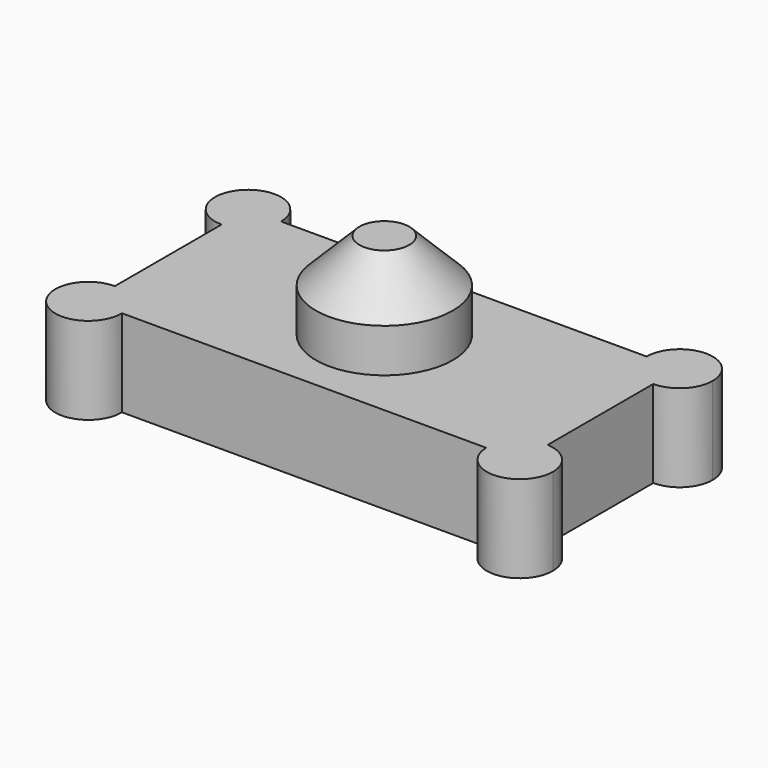
from build123d import *

# Parameters (mm, degrees)
F1_DEPTH = 25.4
F0_R     = 19.9430471138
F2_DEPTH = 50.8
F3_SIZE  = 12.7
F4_DEPTH = 25.4


with BuildPart() as f1:
    # F0 (on Top) → F1 (new body)
    with BuildSketch(Plane.XY):
        with BuildLine():
            ThreePointArc((-59.9172078073, 19.7825102522), (-61.3659473506, 19.4396687918), (-62.8502368927, 19.3244685906))
            Line((-62.8502368927, 19.3244685906), (-62.8502368927, -19.5175472842))
            ThreePointArc((-62.8502368927, -19.5175472842), (-61.3656586606, -19.6363337398), (-59.9172078073, -19.9828490707))
            Line((-59.9172078073, -19.9828490707), (-59.9172078073, 19.7825102522))
        make_face()
    extrude(amount=F1_DEPTH)


with BuildPart() as f1b:
    # F0 (on Top) → F1, piece 2 (new body)
    with BuildSketch(Plane.XY):
        with BuildLine():
            ThreePointArc((52.8192537854, -28.9441850036), (53.0998431919, -26.4220256358), (54.0302113527, -24.0610018373))
            Line((54.0302113527, -24.0610018373), (-54.7015625949, -24.0610018373))
            ThreePointArc((-54.7015625949, -24.0610018373), (-53.6493149559, -26.4051326723), (-53.25512246, -28.9441850036))
            Line((-53.25512246, -28.9441850036), (52.8192537854, -28.9441850036))
        make_face()
    extrude(amount=F1_DEPTH)


with BuildPart() as f1c:
    # F0 (on Top) → F1, piece 3 (new body)
    with BuildSketch(Plane.XY):
        with BuildLine():
            Line((62.8502368927, -19.1266149839), (62.8502368927, 19.3244685906))
            ThreePointArc((62.8502368927, 19.3244685906), (61.3659473506, 19.4396687918), (59.9172078073, 19.7825102522))
            Line((59.9172078073, 19.7825102522), (59.9172078073, -19.4535374533))
            ThreePointArc((59.9172078073, -19.4535374533), (61.3711108257, -19.1769302248), (62.8502368927, -19.1266149839))
        make_face()
    extrude(amount=F1_DEPTH)


with BuildPart() as f1d:
    # F0 (on Top) → F1, piece 4 (new body)
    with BuildSketch(Plane.XY):
        with BuildLine():
            ThreePointArc((54.5620847446, 24.0610018373), (53.5693797901, 26.4134469083), (53.2305204797, 28.9441850036))
            Line((53.2305204797, 28.9441850036), (-53.2305204797, 28.9441850036))
            ThreePointArc((-53.2305204797, 28.9441850036), (-53.5693797901, 26.4134469083), (-54.5620847446, 24.0610018373))
            Line((-54.5620847446, 24.0610018373), (54.5620847446, 24.0610018373))
        make_face()
    extrude(amount=F1_DEPTH)


with BuildPart() as f2:
    # F0 (on Top) → F2 (new body)
    with BuildSketch(Plane.XY):
        Circle(F0_R)
    extrude(amount=F2_DEPTH)

    # F3
    f3_edges = [f2.edges().sort_by_distance(p)[0] for p in [
        (-19.943047, 0, 50.8),
    ]]
    chamfer(f3_edges, length=F3_SIZE)


with BuildPart() as f4:
    # F0 (on Top) → F4 (new body)
    with BuildSketch(Plane.XY):
        with BuildLine():
            ThreePointArc((72.056464709, -28.7374407053), (69.3835672409, -22.0830699301), (62.8502368927, -19.1266149839))
            ThreePointArc((62.8502368927, -19.1266149839), (61.3711108257, -19.1769302248), (59.9172078073, -19.4535374533))
            ThreePointArc((59.9172078073, -19.4535374533), (56.507838276, -21.1620219155), (54.0302113527, -24.0610018373))
            ThreePointArc((54.0302113527, -24.0610018373), (53.0998431919, -26.4220256358), (52.8192537854, -28.9441850036))
            ThreePointArc((52.8192537854, -28.9441850036), (62.5401264148, -38.3566016267), (72.056464709, -28.7374407053))
        make_face()
        with BuildLine():
            ThreePointArc((54.5620847446, 24.0610018373), (53.5693797901, 26.4134469083), (53.2305204797, 28.9441850036))
            Line((53.2305204797, 28.9441850036), (-53.2305204797, 28.9441850036))
            ThreePointArc((-53.2305204797, 28.9441850036), (-53.5693797901, 26.4134469083), (-54.5620847446, 24.0610018373))
            Line((-54.5620847446, 24.0610018373), (54.5620847446, 24.0610018373))
        make_face()
        with BuildLine():
            ThreePointArc((72.4699533057, 28.9441850036), (62.8502368927, 38.5639014166), (53.2305204797, 28.9441850036))
            ThreePointArc((53.2305204797, 28.9441850036), (53.5693797901, 26.4134469083), (54.5620847446, 24.0610018373))
            ThreePointArc((54.5620847446, 24.0610018373), (56.8456470125, 21.4286115567), (59.9172078073, 19.7825102522))
            ThreePointArc((59.9172078073, 19.7825102522), (61.3659473506, 19.4396687918), (62.8502368927, 19.3244685906))
            ThreePointArc((62.8502368927, 19.3244685906), (69.6524036014, 22.1420182949), (72.4699533057, 28.9441850036))
        make_face()
        with BuildLine():
            ThreePointArc((-54.5620847446, 24.0610018373), (-53.5693797901, 26.4134469083), (-53.2305204797, 28.9441850036))
            ThreePointArc((-53.2305204797, 28.9441850036), (-69.6524036014, 35.7463517124), (-62.8502368927, 19.3244685906))
            ThreePointArc((-62.8502368927, 19.3244685906), (-61.3659473506, 19.4396687918), (-59.9172078073, 19.7825102522))
            Line((-59.9172078073, 19.7825102522), (-59.9172078073, -19.9828490707))
            ThreePointArc((-59.9172078073, -19.9828490707), (-56.947486235, -21.5590843792), (-54.7015625949, -24.0610018373))
            Line((-54.7015625949, -24.0610018373), (54.0302113527, -24.0610018373))
            ThreePointArc((54.0302113527, -24.0610018373), (56.507838276, -21.1620219155), (59.9172078073, -19.4535374533))
            Line((59.9172078073, -19.4535374533), (59.9172078073, 19.7825102522))
            ThreePointArc((59.9172078073, 19.7825102522), (56.8456470125, 21.4286115567), (54.5620847446, 24.0610018373))
            Line((54.5620847446, 24.0610018373), (-54.5620847446, 24.0610018373))
        make_face()
        Circle(F0_R, mode=Mode.SUBTRACT)
        with BuildLine():
            ThreePointArc((-59.9172078073, 19.7825102522), (-61.3659473506, 19.4396687918), (-62.8502368927, 19.3244685906))
            Line((-62.8502368927, 19.3244685906), (-62.8502368927, -19.5175472842))
            ThreePointArc((-62.8502368927, -19.5175472842), (-61.3656586606, -19.6363337398), (-59.9172078073, -19.9828490707))
            Line((-59.9172078073, -19.9828490707), (-59.9172078073, 19.7825102522))
        make_face()
        with BuildLine():
            Line((62.8502368927, -19.1266149839), (62.8502368927, 19.3244685906))
            ThreePointArc((62.8502368927, 19.3244685906), (61.3659473506, 19.4396687918), (59.9172078073, 19.7825102522))
            Line((59.9172078073, 19.7825102522), (59.9172078073, -19.4535374533))
            ThreePointArc((59.9172078073, -19.4535374533), (61.3711108257, -19.1769302248), (62.8502368927, -19.1266149839))
        make_face()
        with BuildLine():
            ThreePointArc((-59.9172078073, -19.9828490707), (-61.3656586606, -19.6363337398), (-62.8502368927, -19.5175472842))
            ThreePointArc((-62.8502368927, -19.5175472842), (-69.6830767228, -35.9313858112), (-53.2531851459, -29.1372369975))
            ThreePointArc((-53.2531851459, -29.1372369975), (-53.2536694866, -29.0407061404), (-53.25512246, -28.9441850036))
            ThreePointArc((-53.25512246, -28.9441850036), (-53.6493149559, -26.4051326723), (-54.7015625949, -24.0610018373))
            ThreePointArc((-54.7015625949, -24.0610018373), (-56.947486235, -21.5590843792), (-59.9172078073, -19.9828490707))
        make_face()
        with BuildLine():
            ThreePointArc((72.056464709, -28.7374407053), (69.3835672409, -22.0830699301), (62.8502368927, -19.1266149839))
            ThreePointArc((62.8502368927, -19.1266149839), (61.3711108257, -19.1769302248), (59.9172078073, -19.4535374533))
            ThreePointArc((59.9172078073, -19.4535374533), (56.507838276, -21.1620219155), (54.0302113527, -24.0610018373))
            ThreePointArc((54.0302113527, -24.0610018373), (53.0998431919, -26.4220256358), (52.8192537854, -28.9441850036))
            ThreePointArc((52.8192537854, -28.9441850036), (62.5401264148, -38.3566016267), (72.056464709, -28.7374407053))
        make_face()
        with BuildLine():
            ThreePointArc((52.8192537854, -28.9441850036), (53.0998431919, -26.4220256358), (54.0302113527, -24.0610018373))
            Line((54.0302113527, -24.0610018373), (-54.7015625949, -24.0610018373))
            ThreePointArc((-54.7015625949, -24.0610018373), (-53.6493149559, -26.4051326723), (-53.25512246, -28.9441850036))
            Line((-53.25512246, -28.9441850036), (52.8192537854, -28.9441850036))
        make_face()
    extrude(amount=F4_DEPTH)


solid = Compound([f1.part, f1b.part, f1c.part, f1d.part, f2.part, f4.part])
